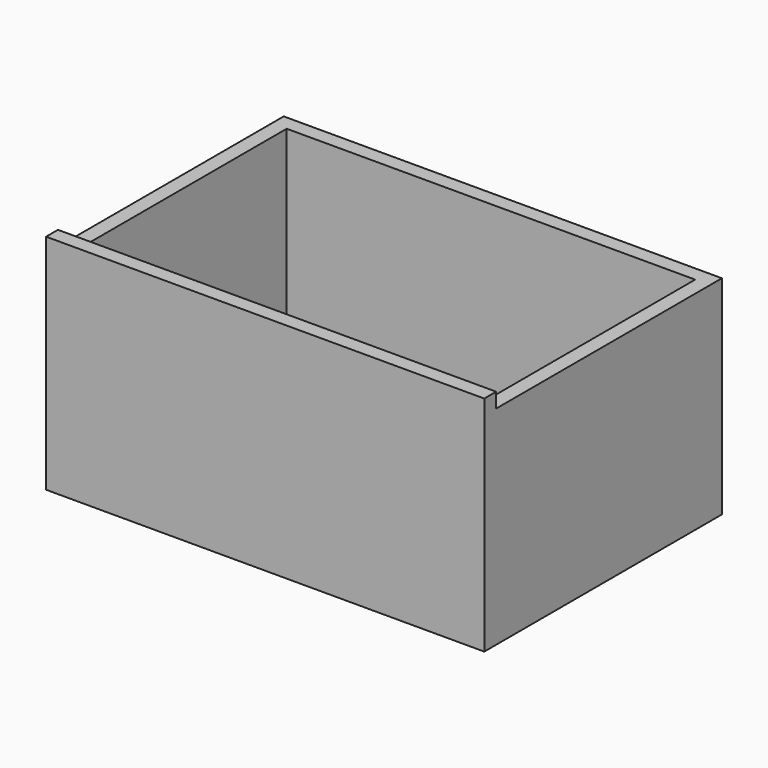
from build123d import *

# Parameters (mm, degrees)
F0_W     = 20
F0_H     = 20
F0_W_2   = 550
F0_H_2   = 360
F1_DEPTH = 280
F2_DEPTH = 300


with BuildPart() as f1:
    # F0 (on Top) → F1 (new body)
    with BuildSketch(Plane.XY):
        with Locations((-285, 190)):
            Rectangle(F0_W, F0_H)
        with Locations((285, 190)):
            Rectangle(F0_W, F0_H)
        with Locations((0, 190)):
            Rectangle(F0_W_2, F0_H)
        with Locations((-285, 0)):
            Rectangle(F0_W, F0_H_2)
        with Locations((285, 0)):
            Rectangle(F0_W, F0_H_2)
    extrude(amount=F1_DEPTH)

    # F0 (on Top) → F2 (join)
    with BuildSketch(Plane.XY):
        with Locations((-285, -190)):
            Rectangle(F0_W, F0_H)
        with Locations((0, -190)):
            Rectangle(F0_W_2, F0_H)
        with Locations((285, -190)):
            Rectangle(F0_W, F0_H)
    extrude(amount=F2_DEPTH)


solid = f1.part
